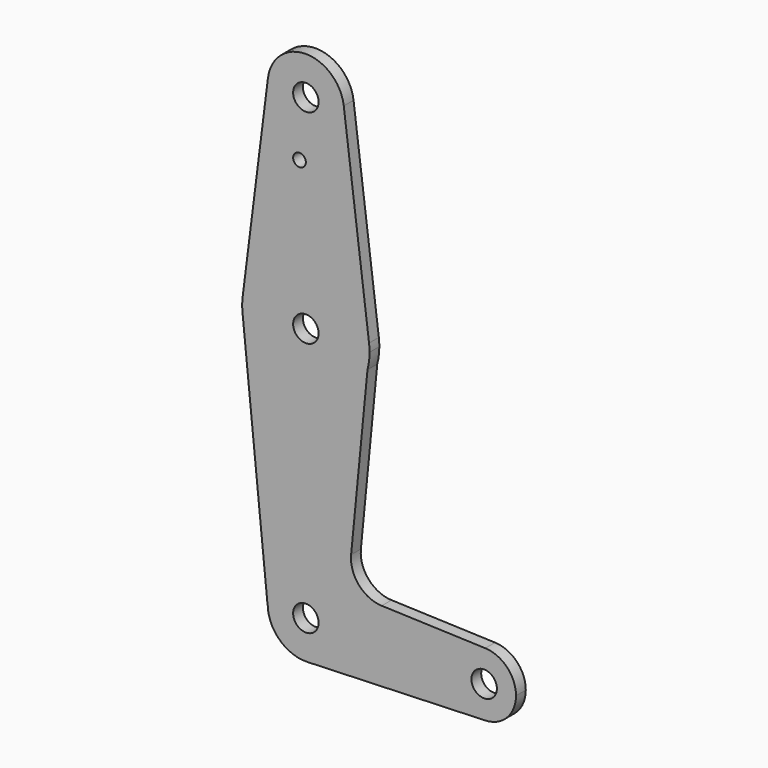
from build123d import *

# Parameters (mm, degrees)
F0_R     = 3.175
F0_R_2   = 1.5875
F1_DEPTH = 3.048


with BuildPart() as f1:
    # F0 (on Front) → F1 (new body)
    with BuildSketch(Plane.XZ):
        with BuildLine():
            ThreePointArc((-9.450293, 115.490625), (-0.596483, 104.793695), (9.525, 114.3))
            ThreePointArc((9.525, 114.3), (9.506305, 114.896483), (9.450293, 115.490625))
            ThreePointArc((9.450293, 115.490625), (0, 123.825), (-9.450293, 115.490625))
        make_face()
        with Locations((0, 114.3)):
            Circle(F0_R, mode=Mode.SUBTRACT)
        with BuildLine():
            ThreePointArc((9.450293, 115.490625), (9.506305, 114.896483), (9.525, 114.3))
            ThreePointArc((9.525, 114.3), (-0.596483, 104.793695), (-9.450293, 115.490625))
            Line((-9.450293, 115.490625), (-15.750488, 65.484374))
            ThreePointArc((-15.750488, 65.484374), (-1e-06, 79.375), (15.750488, 65.484375))
            Line((15.750488, 65.484375), (9.450293, 115.490625))
        make_face()
        with Locations((-1.5875, 100.0252)):
            Circle(F0_R_2, mode=Mode.SUBTRACT)
        with BuildLine():
            ThreePointArc((15.875, 63.5), (15.843841, 64.494139), (15.750488, 65.484375))
            ThreePointArc((15.750488, 65.484375), (-1e-06, 79.375), (-15.750488, 65.484374))
            ThreePointArc((-15.750488, 65.484374), (-15.774205, 65.286078), (-15.795426, 65.0875))
            Line((-15.795426, 65.0875), (-15.795426, 61.9125))
            ThreePointArc((-15.795426, 61.9125), (-1.230642, 47.672772), (15.360194, 59.490004))
            ThreePointArc((15.360194, 59.490004), (15.745772, 61.478547), (15.875, 63.5))
        make_face()
        with Locations((0, 63.5)):
            Circle(F0_R, mode=Mode.SUBTRACT)
        with BuildLine():
            ThreePointArc((-15.795426, 65.0875), (-15.774205, 65.286078), (-15.750488, 65.484374))
            Line((-15.750488, 65.484374), (-15.795426, 65.127696))
            Line((-15.795426, 65.127696), (-15.795426, 65.0875))
        make_face()
        with BuildLine():
            Line((-15.795426, 61.9125), (-15.795426, 65.0875))
            ThreePointArc((-15.795426, 65.0875), (-15.875, 63.5), (-15.795426, 61.9125))
        make_face()
        with BuildLine():
            Line((11.280164, 17.570611), (15.360194, 59.490004))
            ThreePointArc((15.360194, 59.490004), (-1.230642, 47.672772), (-15.795426, 61.9125))
            Line((-15.795426, 61.9125), (-9.572985, 0))
            Line((-9.572985, 0), (-9.524999, 0.004823))
            ThreePointArc((-9.524999, 0.004823), (0.002411, 9.525), (9.525, 0))
            ThreePointArc((9.525, 0), (6.854408, -6.613827), (0.340179, -9.518923))
            Line((0.340179, -9.518923), (44.733482, -7.932436))
            ThreePointArc((44.733482, -7.932436), (36.5125, 0), (44.733482, 7.932436))
            Line((44.733482, 7.932436), (18.909037, 8.855327))
            ThreePointArc((18.909037, 8.855327), (13.210857, 11.564046), (11.280164, 17.570611))
        make_face()
        with BuildLine():
            ThreePointArc((9.525, 0), (0.002411, 9.525), (-9.524999, 0.004823))
            ThreePointArc((-9.524999, 0.004823), (-6.615562, -6.852734), (0.340179, -9.518923))
            ThreePointArc((0.340179, -9.518923), (6.854408, -6.613827), (9.525, 0))
        make_face()
        Circle(F0_R, mode=Mode.SUBTRACT)
        with BuildLine():
            ThreePointArc((52.3875, 0), (50.162007, 5.511523), (44.733482, 7.932436))
            ThreePointArc((44.733482, 7.932436), (36.5125, 0), (44.733482, -7.932436))
            ThreePointArc((44.733482, -7.932436), (50.162007, -5.511523), (52.3875, 0))
        make_face()
        with Locations((44.45, 0)):
            Circle(F0_R, mode=Mode.SUBTRACT)
    extrude(amount=F1_DEPTH)


solid = f1.part
